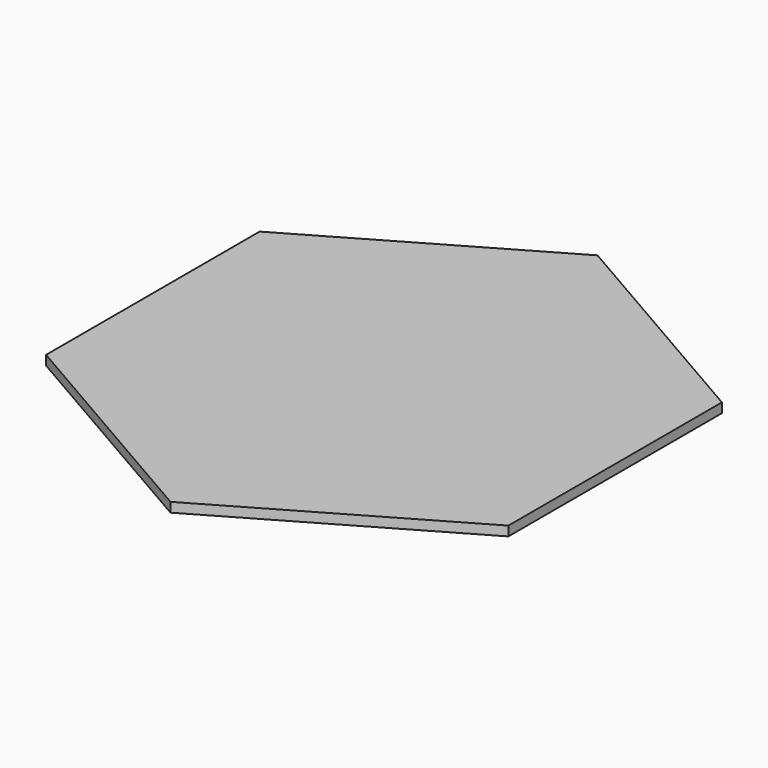
from build123d import *

# Parameters (mm, degrees)
F1_DEPTH = 3.175


with BuildPart() as f1:
    # F0 (on Top) → F1 (new body)
    with BuildSketch(Plane.XY):
        Polygon((0, -88.9), (0, 0), (0, 88.9), (-76.989658, 44.45), (-76.989658, -44.45), align=None)
        Polygon((0, 88.9), (0, 0), (0, -88.9), (76.989658, -44.45), (76.989658, 0), (76.989658, 44.45), align=None)
    extrude(amount=F1_DEPTH)


solid = f1.part
